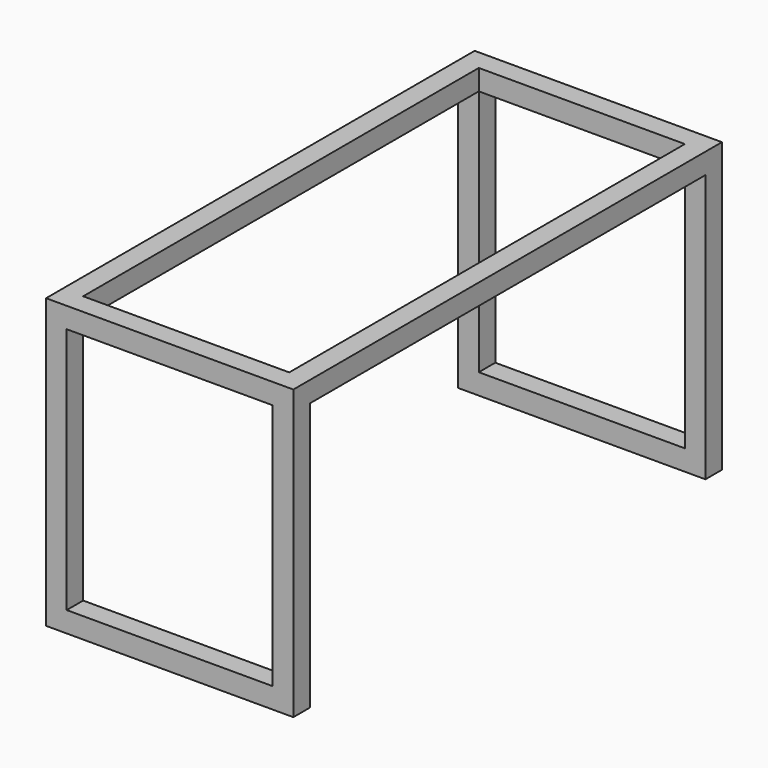
from build123d import *

# Parameters (mm, degrees)
F1_DEPTH      = 50
F2_W          = 50
F2_H          = 50
F3_DEPTH      = 600
F5_W          = 50
F5_H          = 50
F6_DEPTH      = 500
F6_DEPTH_BACK = 25


with BuildPart() as f1:
    # F0 (on Front) → F1 (new body)
    with BuildSketch(Plane.XZ):
        Polygon((-300, 700), (-300, 0), (300, 0), (300, 700), (250, 700), (250, 50), (-250, 50), (-250, 700), align=None)
    extrude(amount=F1_DEPTH)

    # F4: F3 across plane


with BuildPart() as f3:
    # F2 (on face) → F3 (new body)
    with BuildSketch(Plane(origin=(0, 0, 0), x_dir=(-1, 0, 0), z_dir=(0, 1, 0))):
        with Locations((-275, 675)):
            Rectangle(F2_W, F2_H)
    extrude(amount=F3_DEPTH)


with BuildPart() as f1_1:
    add(f1.part)
    add(f3.part.mirror(Plane.YZ))


    add(f3.part)  # F6 merges F3
    # F5 (on face) → F6 (join, two sides)
    with BuildSketch(Plane.YZ.offset(-250)) as f6_sk:
        with Locations((-25, 675)):
            Rectangle(F5_W, F5_H)
    extrude(amount=F6_DEPTH)
    extrude(f6_sk.sketch, amount=-F6_DEPTH_BACK)

    # F7: F1 across face


with BuildPart() as f1_2:
    add(f1_1.part)
    add(f1_1.part.mirror(Plane(origin=(275, 600, 675), x_dir=(-1, 0, 0), z_dir=(0, 1, 0))))


solid = f1_2.part
